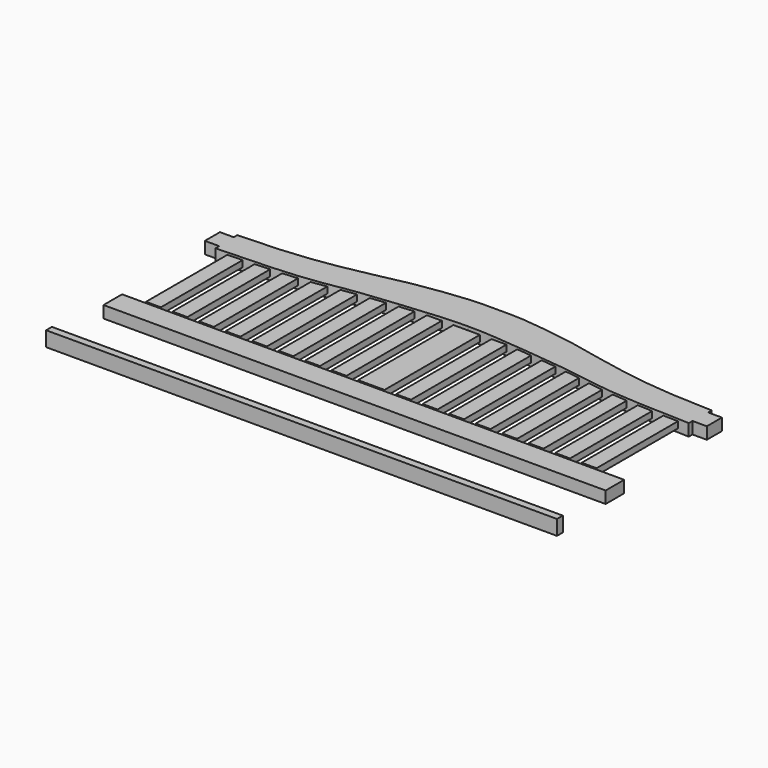
from build123d import *

# Parameters (mm, degrees)
F1_DEPTH      = 36
F3_W          = 45
F3_H          = 19
F6_DEPTH      = 300
F6_DEPTH_BACK = 60
F3_W_2        = 35
F7_W          = 1515.595
F7_H          = 70
F8_DEPTH      = 36
F9_W          = 1542
F9_H          = 22
F10_DEPTH     = 45


with BuildPart() as f1:
    # F0 (on Top) → F1 (new body)
    with BuildSketch(Plane.XY):
        with BuildLine():
            Line((-321.4981617821, -46.7301225538), (-321.4981617821, -60.8601239645))
            add(Edge.make_bspline(
                [(-321.4981617821, -60.8601239645), (-272.4046358955, -59.3462430355), (-170.2520509431, -56.207620817), (-35.9826581658, -46.6994664192), (64.3410811718, -25.3433138916), (284.5580234418, -5.2735954873), (345.7956576914, 0), (392.7934741307, 0)],
                knots=[0, 0, 0, 0, 0.208195195, 0.3998346254, 0.574825884, 0.8181593735, 1, 1, 1, 1], degree=3))
            Line((392.7934741307, 0), (392.7934741307, 110.033325851))
            add(Edge.make_bspline(
                [(-323.2065258693, 23.5775957889), (-285.9138590415, 24.8047202406), (-199.66755681, 27.6465021332), (-70.7151767873, 40.9651062955), (64.7650345784, 68.3383213906), (154.4272313366, 89.4877879349), (303.5346598118, 109.7353322023), (347.1258653182, 110.2066251786), (392.7934741307, 110.033325851)],
                knots=[0, 0, 0, 0, 0.167669836, 0.3439053225, 0.5203070584, 0.6707501797, 0.8493429087, 1, 1, 1, 1], degree=3))
            Line((-323.2065258693, 23.5775957889), (-323.2065258693, 10.247664638))
            Line((-323.2065258693, 10.247664638), (-364.7646004743, 10.247664638))
            Line((-364.7646004743, 10.247664638), (-364.7646004743, -46.7301225538))
            Line((-364.7646004743, -46.7301225538), (-321.4981617821, -46.7301225538))
        make_face()
        with BuildLine():
            Line((-321.4981617821, -46.7301225538), (-321.4981617821, -60.8601239645))
            add(Edge.make_bspline(
                [(-321.4981617821, -60.8601239645), (-272.4046358955, -59.3462430355), (-170.2520509431, -56.207620817), (-35.9826581658, -46.6994664192), (64.3410811718, -25.3433138916), (284.5580234418, -5.2735954873), (345.7956576914, 0), (392.7934741307, 0)],
                knots=[0, 0, 0, 0, 0.208195195, 0.3998346254, 0.574825884, 0.8181593735, 1, 1, 1, 1], degree=3))
            Line((392.7934741307, 0), (392.7934741307, 110.033325851))
            add(Edge.make_bspline(
                [(-323.2065258693, 23.5775957889), (-285.9138590415, 24.8047202406), (-199.66755681, 27.6465021332), (-70.7151767873, 40.9651062955), (64.7650345784, 68.3383213906), (154.4272313366, 89.4877879349), (303.5346598118, 109.7353322023), (347.1258653182, 110.2066251786), (392.7934741307, 110.033325851)],
                knots=[0, 0, 0, 0, 0.167669836, 0.3439053225, 0.5203070584, 0.6707501797, 0.8493429087, 1, 1, 1, 1], degree=3))
            Line((-323.2065258693, 23.5775957889), (-323.2065258693, 10.247664638))
            Line((-323.2065258693, 10.247664638), (-364.7646004743, 10.247664638))
            Line((-364.7646004743, 10.247664638), (-364.7646004743, -46.7301225538))
            Line((-364.7646004743, -46.7301225538), (-321.4981617821, -46.7301225538))
        make_face()
    extrude(amount=F1_DEPTH)

    # F5: F1 across plane


with BuildPart() as f1_1:
    add(f1.part)
    add(f1.part.mirror(Plane(origin=(392.7934741307, 55.0166629255, 18), x_dir=(0, 1, 0), z_dir=(1, 0, 0))))

    # F3 (on offset) → F6, piece 4 (join, two sides)
    with BuildSketch(Plane.XZ.offset(66.7301225538)) as f6_4_sk:
        with Locations((-183.9981617821, 20.1)):
            Rectangle(F3_W, F3_H)
        with Locations((-103.9981617821, 20.1)):
            Rectangle(F3_W, F3_H)
        with Locations((-23.9981617821, 20.1)):
            Rectangle(F3_W, F3_H)
        with Locations((56.0018382179, 20.1)):
            Rectangle(F3_W, F3_H)
        with Locations((136.0018382179, 20.1)):
            Rectangle(F3_W, F3_H)
        with Locations((216.0018382179, 20.1)):
            Rectangle(F3_W, F3_H)
        with Locations((571.0018382179, 20.1)):
            Rectangle(F3_W, F3_H)
        with Locations((651.0018382179, 20.1)):
            Rectangle(F3_W, F3_H)
        with Locations((731.0018382179, 20.1)):
            Rectangle(F3_W, F3_H)
        with Locations((811.0018382179, 20.1)):
            Rectangle(F3_W, F3_H)
        with Locations((891.0018382179, 20.1)):
            Rectangle(F3_W, F3_H)
        with Locations((971.0018382179, 20.1)):
            Rectangle(F3_W, F3_H)
        with Locations((1051.0018382179, 20.1)):
            Rectangle(F3_W, F3_H)
        with Locations((-263.9981617821, 20.1)):
            Rectangle(F3_W, F3_H)
    extrude(amount=F6_DEPTH)
    extrude(f6_4_sk.sketch, amount=-F6_DEPTH_BACK)


with BuildPart() as f6:
    # F3 (on offset) → F6 (new body, two sides)
    with BuildSketch(Plane.XZ.offset(66.7301225538)) as f6_sk:
        with Locations((296.0018382179, 20.1)):
            Rectangle(F3_W, F3_H)
    extrude(amount=F6_DEPTH)
    extrude(f6_sk.sketch, amount=-F6_DEPTH_BACK)


with BuildPart() as f6b:
    # F3 (on offset) → F6, piece 2 (new body, two sides)
    with BuildSketch(Plane.XZ.offset(66.7301225538)) as f6_2_sk:
        with Locations((491.0018382179, 20.1)):
            Rectangle(F3_W, F3_H)
    extrude(amount=F6_DEPTH)
    extrude(f6_2_sk.sketch, amount=-F6_DEPTH_BACK)


with BuildPart() as f6c:
    # F3 (on offset) → F6, piece 3 (new body, two sides)
    with BuildSketch(Plane.XZ.offset(66.7301225538)) as f6_3_sk:
        with Locations((376.0018382179, 20.1)):
            Rectangle(F3_W, F3_H)
        with Locations((416.0018382179, 20.1)):
            Rectangle(F3_W_2, F3_H)
    extrude(amount=F6_DEPTH)
    extrude(f6_3_sk.sketch, amount=-F6_DEPTH_BACK)


with BuildPart() as f8:
    # F7 (on Top) → F8 (new body)
    with BuildSketch(Plane.XY):
        with Locations((411.097869277, -416.7577807603)):
            Rectangle(F7_W, F7_H)
    extrude(amount=F8_DEPTH)


with BuildPart() as f10:
    # F9 (on Top) → F10 (new body)
    with BuildSketch(Plane.XY):
        with Locations((409.8616689444, -639.3527780885)):
            Rectangle(F9_W, F9_H)
    extrude(amount=F10_DEPTH)


solid = Compound([f1_1.part, f6.part, f6b.part, f6c.part, f8.part, f10.part])
